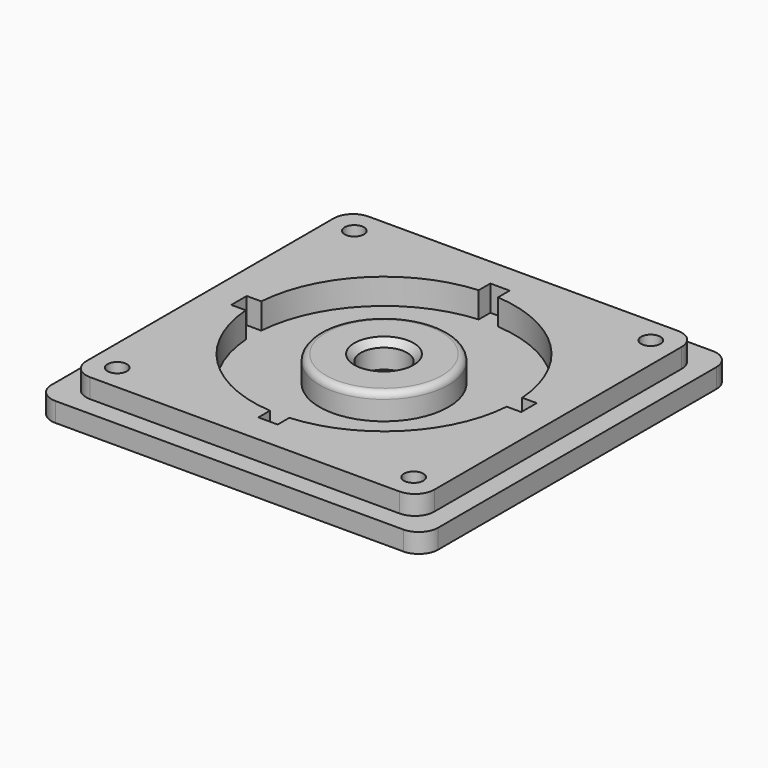
from build123d import *

# Parameters (mm, degrees)
PAD_DEPTH       = 6
SKETCH001_R     = 20.3
POCKET_DEPTH    = 4
POCKET001_DEPTH = 4
POCKET002_DEPTH = 3
SKETCH004_R     = 1.5
POCKET003_DEPTH = 6.001
SKETCH005_R     = 10
SKETCH005_R_2   = 3.6
PAD001_DEPTH    = 4
FILLET_R        = 1
CHAMFER_SIZE    = 1


with BuildPart() as part:
    # Sketch → Pad (new body)
    with BuildSketch(Plane.XY):
        with BuildLine():
            Line((-30, 27), (-30, -27))
            ThreePointArc((-30, -27), (-29.12132, -29.12132), (-27, -30))
            Line((-27, -30), (27, -30))
            ThreePointArc((27, -30), (29.12132, -29.12132), (30, -27))
            Line((30, -27), (30, 27))
            ThreePointArc((30, 27), (29.12132, 29.12132), (27, 30))
            Line((27, 30), (-27, 30))
            ThreePointArc((-27, 30), (-29.12132, 29.12132), (-30, 27))
        make_face()
    extrude(amount=PAD_DEPTH)

    # Sketch001 (on Face10 of Pad) → Pocket (cut)
    with BuildSketch(Plane.XY.offset(6)):
        Circle(SKETCH001_R)
    extrude(amount=-POCKET_DEPTH, mode=Mode.SUBTRACT)

    # Sketch002 (on Face5 of Pocket) → Pocket001 (cut)
    with BuildSketch(Plane.XY.offset(6)):
        Polygon((-22.5, 1.5), (-1.5, 1.5), (-1.5, 22.5), (1.5, 22.5), (1.5, 1.5), (22.5, 1.5), (22.5, -1.5), (1.5, -1.5), (1.5, -22.5), (-1.5, -22.5), (-1.5, -1.5), (-22.5, -1.5), align=None)
    extrude(amount=-POCKET001_DEPTH, mode=Mode.SUBTRACT)

    # Sketch003 (on Face5 of Pocket001) → Pocket002 (cut)
    with BuildSketch(Plane.XY.offset(6)):
        with BuildLine():
            Line((-30, 27), (-30, -27))
            ThreePointArc((-30, -27), (-29.12132, -29.12132), (-27, -30))
            Line((-27, -30), (27, -30))
            ThreePointArc((27, -30), (29.12132, -29.12132), (30, -27))
            Line((30, -27), (30, 27))
            ThreePointArc((30, 27), (29.12132, 29.12132), (27, 30))
            Line((27, 30), (-27, 30))
            ThreePointArc((-27, 30), (-29.12132, 29.12132), (-30, 27))
        make_face()
        with BuildLine():
            Line((-27, 24), (-27, -24))
            ThreePointArc((-27, -24), (-26.12132, -26.12132), (-24, -27))
            Line((-24, -27), (24, -27))
            ThreePointArc((24, -27), (26.12132, -26.12132), (27, -24))
            Line((27, -24), (27, 24))
            ThreePointArc((27, 24), (26.12132, 26.12132), (24, 27))
            Line((24, 27), (-24, 27))
            ThreePointArc((-24, 27), (-26.12132, 26.12132), (-27, 24))
        make_face(mode=Mode.SUBTRACT)
    extrude(amount=-POCKET002_DEPTH, mode=Mode.SUBTRACT)

    # Sketch004 (on Face19 of Pocket002) → Pocket003 (cut, through all)
    with BuildSketch(Plane.XY.offset(6)):
        with Locations((-23, 23)):
            Circle(SKETCH004_R)
        with Locations((-23, -23)):
            Circle(SKETCH004_R)
        with Locations((23, -23)):
            Circle(SKETCH004_R)
        with Locations((23, 23)):
            Circle(SKETCH004_R)
    extrude(amount=-POCKET003_DEPTH, mode=Mode.SUBTRACT)

    # Sketch005 (on Face40 of Pocket003) → Pad001 (join)
    with BuildSketch(Plane.XY.offset(2)):
        Circle(SKETCH005_R)
        Circle(SKETCH005_R_2, mode=Mode.SUBTRACT)
    extrude(amount=PAD001_DEPTH)

    # Fillet
    fillet_edges = [part.edges().sort_by_distance(p)[0] for p in [
        (-10, 0, 6),
    ]]
    fillet(fillet_edges, radius=FILLET_R)

    # Chamfer
    chamfer_edges = [part.edges().sort_by_distance(p)[0] for p in [
        (-3.6, 0, 6),
    ]]
    chamfer(chamfer_edges, length=CHAMFER_SIZE)


solid = part.part
